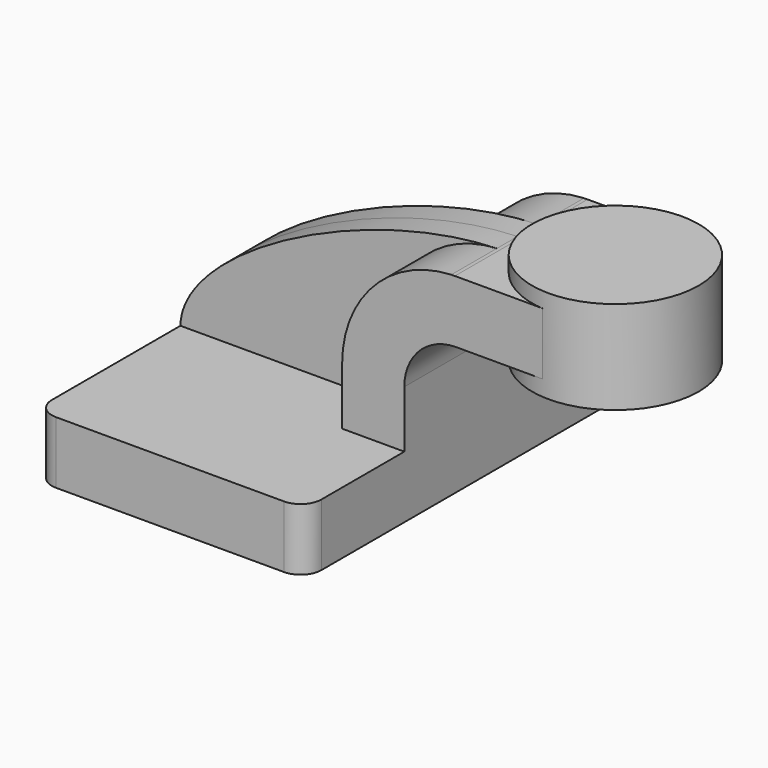
from build123d import *

# Parameters (mm, degrees)
F1_DEPTH = 63.5
F0_W     = 25.2706611185
F0_H     = 19.05
F2_DEPTH = 25.4
F3_DEPTH = 7.9375
F5_R     = 6.35


with BuildPart() as f1:
    # F0 (on Front) → F1 (new body, symmetric)
    with BuildSketch(Plane.XZ):
        Polygon((-41.275, -9.525), (41.275, -9.525), (41.275, 9.525), (22.225, 9.525), (-41.275, 9.525), align=None)
    extrude(amount=F1_DEPTH, both=True)

    # F0 (on Front) → F2 (join, symmetric)
    with BuildSketch(Plane.XZ):
        with BuildLine():
            Line((22.225, 9.525), (41.275, 9.525))
            Line((41.275, 9.525), (41.275, 27.0022737393))
            ThreePointArc((41.275, 27.0022737393), (45.834326253, 38.1365071055), (56.8934129325, 42.8752))
            Line((56.8934129325, 42.8752), (60.325, 42.8752))
            Line((60.325, 42.8752), (60.325, 61.9252))
            Line((60.325, 61.9252), (56.769413096, 61.9252))
            add(Edge.make_bspline(
                [(55.6501414791, 61.89505307), (56.0243794143, 61.9073479869), (56.3974868874, 61.9174052801), (56.769413096, 61.9252)],
                knots=[110.1715790032, 110.1715790032, 110.1715790032, 110.1715790032, 111.1687361599, 111.1687361599, 111.1687361599, 111.1687361599], degree=3))
            ThreePointArc((55.6501414791, 61.89505307), (31.9295897749, 51.1618791392), (22.225, 27.0022737393))
            Line((22.225, 27.0022737393), (22.225, 9.525))
        make_face()
        with Locations((72.9603305593, 52.4002)):
            Rectangle(F0_W, F0_H)
    extrude(amount=F2_DEPTH, both=True)

    # F0 (on Front) → F3 (join, symmetric)
    with BuildSketch(Plane.XZ):
        with BuildLine():
            add(Edge.make_bspline(
                [(-41.275, 9.525), (-40.8453637442, 31.8633683332), (14.3022115528, 60.5366409033), (55.6501414791, 61.89505307)],
                knots=[0, 0, 0, 0, 110.1715790032, 110.1715790032, 110.1715790032, 110.1715790032], degree=3))
            Line((-41.275, 9.525), (22.225, 9.525))
            Line((22.225, 9.525), (22.225, 27.0022737393))
            ThreePointArc((22.225, 27.0022737393), (31.9295897749, 51.1618791392), (55.6501414791, 61.89505307))
        make_face()
    extrude(amount=F3_DEPTH, both=True)

    # F5
    f5_edges = [f1.edges().sort_by_distance(p)[0] for p in [
        (41.275, -63.5, 0),
        (-41.275, -63.5, 0),
        (41.275, 63.5, 0),
        (-41.275, 63.5, 0),
    ]]
    fillet(f5_edges, radius=F5_R)


with BuildPart() as f4:
    # F0 (on Front) → F4 (revolve)
    with BuildSketch(Plane.XZ):
        Polygon((85.5956611185, 61.9252), (85.5956611185, 42.8752), (85.5956611185, 38.1), (111.125, 38.1), (111.125, 66.675), (85.5956611185, 66.675), align=None)
    revolve(axis=Axis((85.5956611185, 0, 52.3875), (0, 0, -1)))


solid = Compound([f1.part, f4.part])
